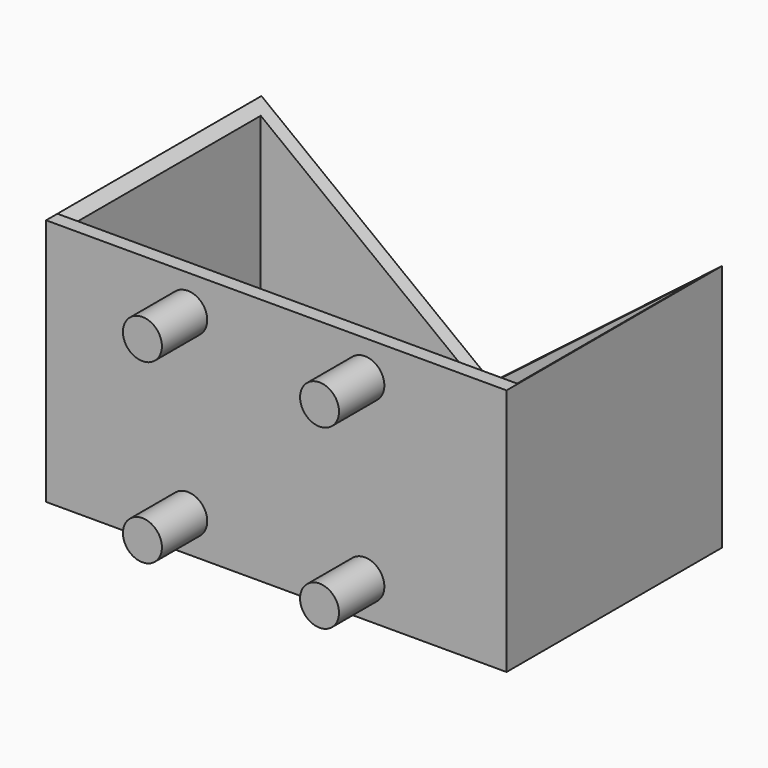
from build123d import *

# Parameters (mm, degrees)
F0_W     = 65
F0_H     = 38
F1_DEPTH = 35
F2_W     = 62
F2_H     = 34
F3_DEPTH = 32.5
F4_R     = 2.75
F5_DEPTH = 8
F7_DEPTH = 36


with BuildPart() as f1:
    # F0 (on Top) → F1 (new body)
    with BuildSketch(Plane.XY):
        Rectangle(F0_W, F0_H)
    extrude(amount=F1_DEPTH)

    # F2 (on face) → F3 (cut)
    with BuildSketch(Plane.XY.offset(35)):
        Rectangle(F2_W, F2_H)
    extrude(amount=-F3_DEPTH, mode=Mode.SUBTRACT)

    # F4 (on face) → F5 (join)
    with BuildSketch(Plane.XZ.offset(19)):
        with Locations((-12.5, 5)):
            Circle(F4_R)
        with Locations((-12.5, 30)):
            Circle(F4_R)
        with Locations((12.5, 30)):
            Circle(F4_R)
        with Locations((12.5, 5)):
            Circle(F4_R)
    extrude(amount=F5_DEPTH)

    # F6 (on face) → F7 (cut, through all)
    with BuildSketch(Plane(origin=(0, 19, 0), x_dir=(-1, 0, 0), z_dir=(0, 1, 0))):
        Polygon((32.5, 35), (-32.5, 35), (0, 10), align=None)
    extrude(amount=-F7_DEPTH, mode=Mode.SUBTRACT)


solid = f1.part
